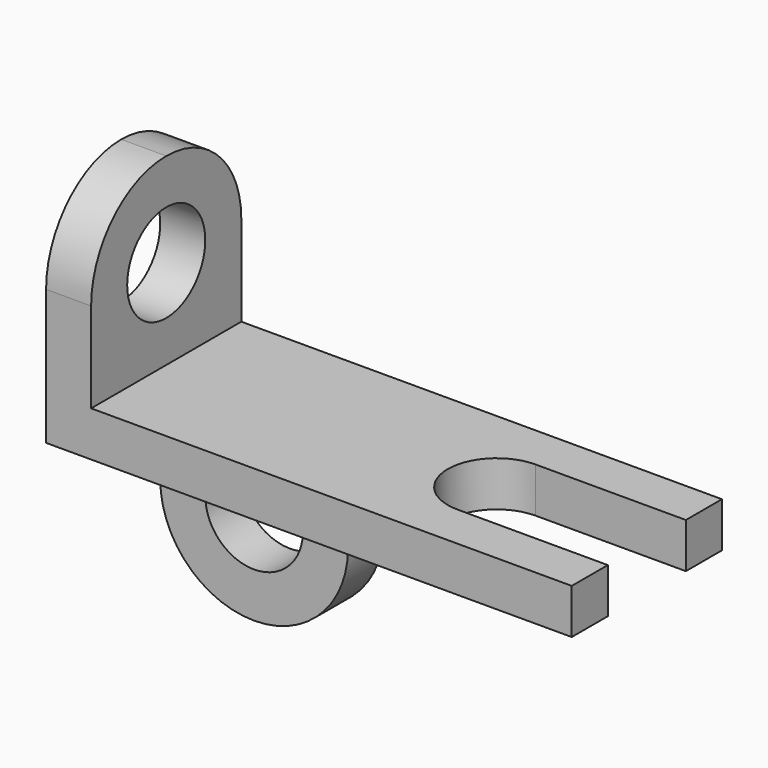
from build123d import *

# Parameters (mm, degrees)
F1_DEPTH  = 25
F3_DEPTH  = 6
F5_DEPTH  = 6
F6_R      = 6.5
F7_DEPTH  = 6
F8_W      = 25
F8_H      = 6
F9_DEPTH  = 24.5
F10_R     = 6.5
F11_DEPTH = 6


with BuildPart() as f1:
    # F0 (on Front) → F1 (new body)
    with BuildSketch(Plane.XZ):
        Polygon((0, 30.5), (0, 0), (70, 0), (70, 6), (6, 6), (6, 30.5), align=None)
    extrude(amount=F1_DEPTH)

    # F2 (on face) → F3 (cut)
    with BuildSketch(Plane.XY.offset(6)):
        with BuildLine():
            Line((70, -19), (70, -6))
            Line((70, -6), (50, -6))
            ThreePointArc((50, -6), (43.5, -12.5), (50, -19))
            Line((50, -19), (70, -19))
        make_face()
    extrude(amount=-F3_DEPTH, mode=Mode.SUBTRACT)

    # F4 (on face) → F5 (cut)
    with BuildSketch(Plane(origin=(0, 0, 0), x_dir=(0, -1, 0), z_dir=(-1, 0, 0))):
        with BuildLine():
            ThreePointArc((12.5, 30.5), (21.338835, 26.838835), (25, 18))
            Line((25, 18), (25, 30.5))
            Line((25, 30.5), (12.5, 30.5))
        make_face()
        with BuildLine():
            ThreePointArc((0, 18), (3.661165, 26.838835), (12.5, 30.5))
            Line((12.5, 30.5), (0, 30.5))
            Line((0, 30.5), (0, 18))
        make_face()
    extrude(amount=-F5_DEPTH, mode=Mode.SUBTRACT)

    # F6 (on face) → F7 (cut)
    with BuildSketch(Plane(origin=(0, 0, 0), x_dir=(0, -1, 0), z_dir=(-1, 0, 0))):
        with Locations((12.5, 18)):
            Circle(F6_R)
    extrude(amount=-F7_DEPTH, mode=Mode.SUBTRACT)

    # F8 (on face) → F9 (join)
    with BuildSketch(Plane(origin=(0, 0, 0), x_dir=(1, 0, 0), z_dir=(0, 0, -1))):
        with Locations((12.5, 3)):
            Rectangle(F8_W, F8_H)
    extrude(amount=F9_DEPTH)

    # F10 (on face) → F11 (cut)
    with BuildSketch(Plane.XZ.offset(6)):
        with BuildLine():
            ThreePointArc((12.5, -24.5), (3.661165, -20.838835), (0, -12))
            Line((0, -12), (0, -24.5))
            Line((0, -24.5), (12.5, -24.5))
        make_face()
        with BuildLine():
            ThreePointArc((25, -12), (21.338835, -20.838835), (12.5, -24.5))
            Line((12.5, -24.5), (25, -24.5))
            Line((25, -24.5), (25, -12))
        make_face()
        with Locations((12.5, -12)):
            Circle(F10_R)
    extrude(amount=-F11_DEPTH, mode=Mode.SUBTRACT)


solid = f1.part
